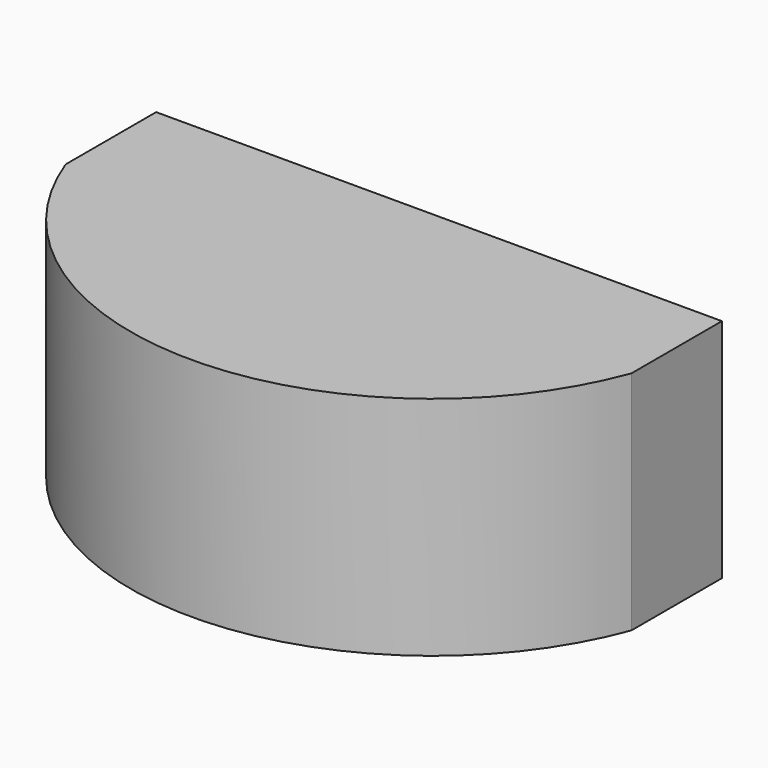
from build123d import *

# Parameters (mm, degrees)
F0_W     = 15
F0_H     = 3
F1_DEPTH = 6


with BuildPart() as f1:
    # F0 (on Top) → F1 (new body)
    with BuildSketch(Plane.XY):
        with Locations((-0.435258, -1.5)):
            Rectangle(F0_W, F0_H)
        with BuildLine():
            Line((7.064742, -3), (-7.935258, -3))
            ThreePointArc((-7.935258, -3), (-0.435258, -8.216118), (7.064742, -3))
        make_face()
    extrude(amount=F1_DEPTH)


solid = f1.part
